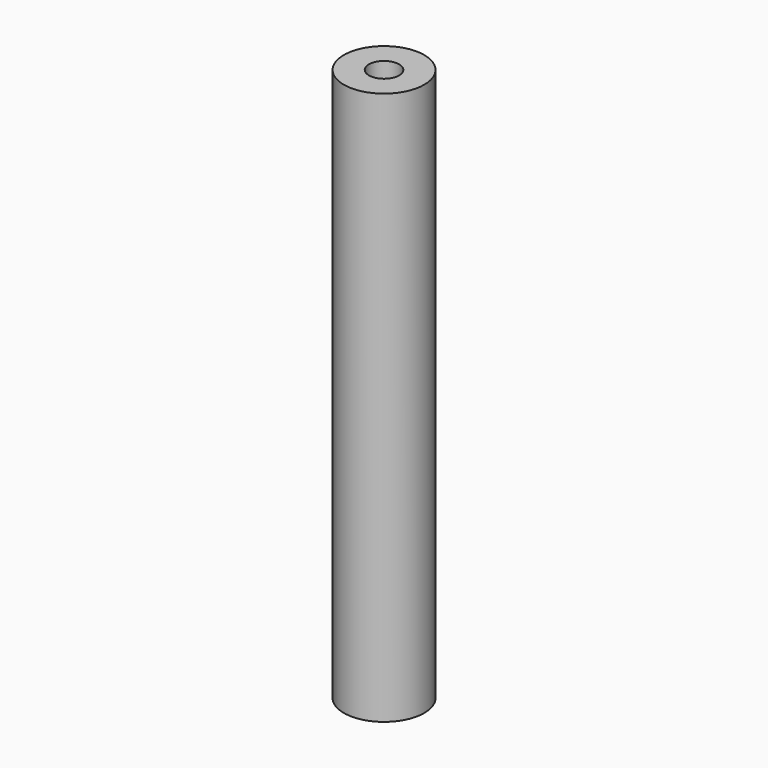
from build123d import *

# Parameters (mm, degrees)
SKETCH_R   = 4
SKETCH_R_2 = 1.5
PAD_DEPTH  = 55


with BuildPart() as part:
    # Sketch → Pad (new body)
    with BuildSketch(Plane.XY):
        Circle(SKETCH_R)
        Circle(SKETCH_R_2, mode=Mode.SUBTRACT)
    extrude(amount=PAD_DEPTH)


solid = part.part
